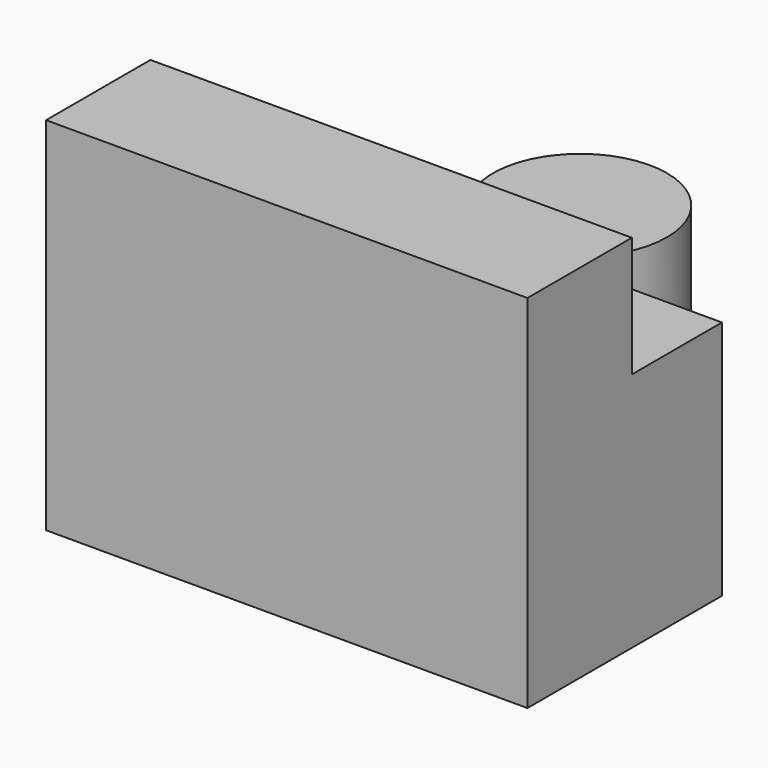
from build123d import *

# Parameters (mm, degrees)
F0_W     = 101.6
F0_H     = 51.300529
F1_DEPTH = 76.2
F2_W     = 101.6
F2_H     = 23.767676
F3_DEPTH = 25.4
F4_R     = 18.347513
F5_DEPTH = 45.466


with BuildPart() as f1:
    # F0 (on Top) → F1 (new body)
    with BuildSketch(Plane.XY):
        with Locations((0, -1.882589)):
            Rectangle(F0_W, F0_H)
    extrude(amount=F1_DEPTH)

    # F2 (on face) → F3 (cut)
    with BuildSketch(Plane.XY.offset(76.2)):
        with Locations((0, 11.883838)):
            Rectangle(F2_W, F2_H)
    extrude(amount=-F3_DEPTH, mode=Mode.SUBTRACT)


with BuildPart() as f5:
    # F4 (on Top) → F5 (new body)
    with BuildSketch(Plane.XY):
        with Locations((0, 49.829185)):
            Circle(F4_R)
    extrude(amount=F5_DEPTH)


solid = Compound([f1.part, f5.part])
